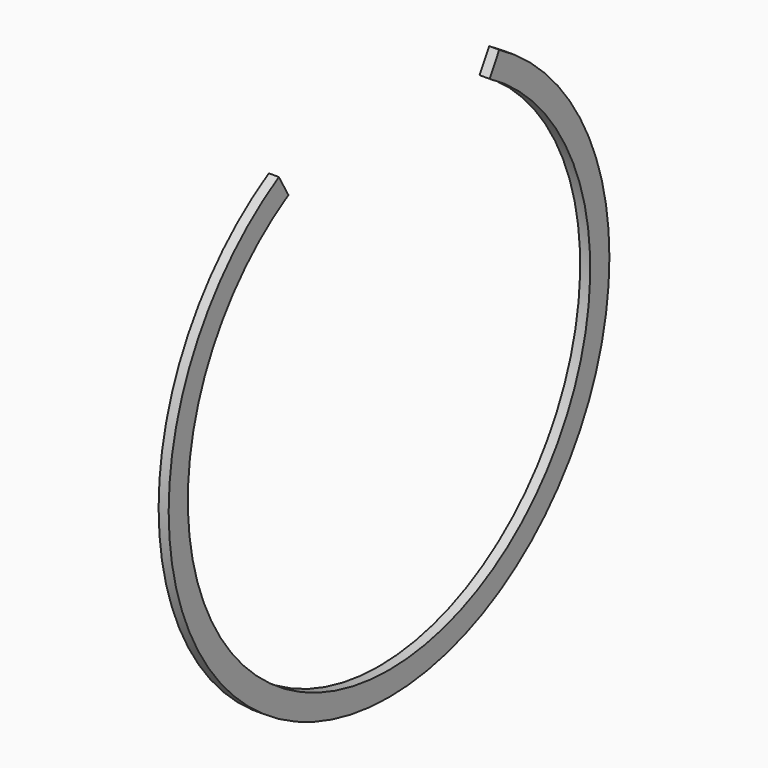
from build123d import *

# Parameters (mm, degrees)
F0_W     = 0.21
F0_H     = 0.5
F1_ANGLE = 300


with BuildPart() as f1:
    # F0 (on Front) → F1 (revolve, symmetric)
    with BuildSketch(Plane.XZ) as f1_sk:
        with Locations((0.105, 0.25)):
            Rectangle(F0_W, F0_H)
    revolve(axis=Axis((0.368295, 0, 5.75), (1, 0, 0)), revolution_arc=F1_ANGLE / 2)
    revolve(f1_sk.sketch, axis=Axis((0.368295, 0, 5.75), (-1, 0, 0)), revolution_arc=F1_ANGLE / 2)


solid = f1.part
